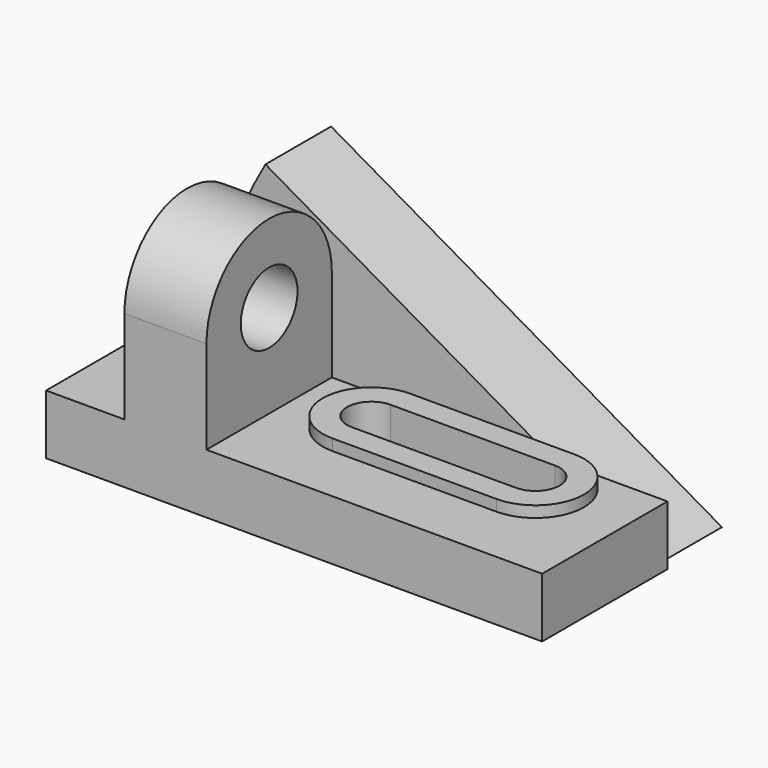
from build123d import *

# Parameters (mm, degrees)
F1_DEPTH  = 42
F2_W      = 121
F2_H      = 22
F3_ANGLE  = 30
F5_DEPTH  = 22
F8_DEPTH  = 3
F9_DEPTH  = 25
F6_R      = 9.5
F10_DEPTH = 25
F11_W     = 10.0625162845
F11_H     = 22
F12_DEPTH = 16


with BuildPart() as f1:
    # F0 (on Front) → F1 (new body)
    with BuildSketch(Plane.XZ):
        Polygon((0, 16), (0, 0), (133, 0), (133, 16), (43, 16), (43, 41), (21, 41), (21, 16), align=None)
    extrude(amount=-F1_DEPTH)

    # F2 (on Top) → F3 (revolve)
    with BuildSketch(Plane.XY):
        with Locations((69.5, 53)):
            Rectangle(F2_W, F2_H)
    revolve(axis=Axis((130, 53, 0), (0, 1, 0)), revolution_arc=F3_ANGLE)

    # F4 (on face) → F5 (join)
    with BuildSketch(Plane.YZ.offset(43)):
        with BuildLine():
            Line((0, 41), (42, 41))
            ThreePointArc((42, 41), (21, 62), (0, 41))
        make_face()
    extrude(amount=-F5_DEPTH)

    # F7 (on face) → F8 (join)
    with BuildSketch(Plane.XY.offset(16)):
        with BuildLine():
            Line((102.2871870789, 42), (64, 42))
            ThreePointArc((64, 42), (51, 29), (64, 16))
            Line((64, 16), (108, 16))
            ThreePointArc((108, 16), (121, 29), (108, 42))
            Line((108, 42), (102.2871870789, 42))
        make_face()
        with BuildLine():
            ThreePointArc((64, 22.5), (57.5, 29), (64, 35.5))
            Line((64, 35.5), (108, 35.5))
            ThreePointArc((108, 35.5), (114.5, 29), (108, 22.5))
            Line((108, 22.5), (64, 22.5))
        make_face(mode=Mode.SUBTRACT)
    extrude(amount=F8_DEPTH)

    # F9 (cut): a face of the model
    f9_faces = [f1.faces().sort_by_distance(p)[0] for p in [
        (86, 29, 16),
    ]]
    extrude(f9_faces, amount=-F9_DEPTH, mode=Mode.SUBTRACT)

    # F6 (on face) → F10 (cut)
    with BuildSketch(Plane.YZ.offset(43)):
        with Locations((21, 41)):
            Circle(F6_R)
    extrude(amount=-F10_DEPTH, mode=Mode.SUBTRACT)

    # F11 (on face) → F12 (join)
    with BuildSketch(Plane.XY.offset(16)):
        with Locations((5.0312581423, 53)):
            Rectangle(F11_W, F11_H)
    extrude(amount=-F12_DEPTH)


solid = f1.part
